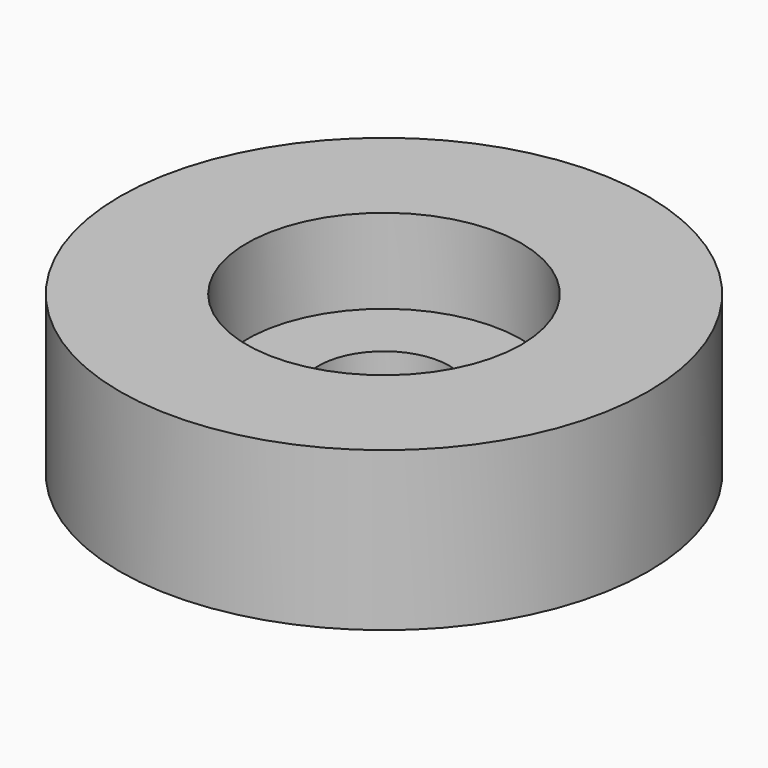
from build123d import *

# Parameters (mm, degrees)
SKETCH_R        = 25
PAD_DEPTH       = 15
SKETCH001_R     = 6.2
POCKET_DEPTH    = 15
SKETCH002_R     = 13
POCKET001_DEPTH = 8


with BuildPart() as part:
    # Sketch → Pad (new body)
    with BuildSketch(Plane.XY):
        Circle(SKETCH_R)
    extrude(amount=PAD_DEPTH)

    # Sketch001 (on Face3 of Pad) → Pocket (cut)
    with BuildSketch(Plane.XY.offset(15)):
        Circle(SKETCH001_R)
    extrude(amount=-POCKET_DEPTH, mode=Mode.SUBTRACT)

    # Sketch002 (on Face3 of Pocket) → Pocket001 (cut)
    with BuildSketch(Plane.XY.offset(15)):
        Circle(SKETCH002_R)
    extrude(amount=-POCKET001_DEPTH, mode=Mode.SUBTRACT)


solid = part.part
